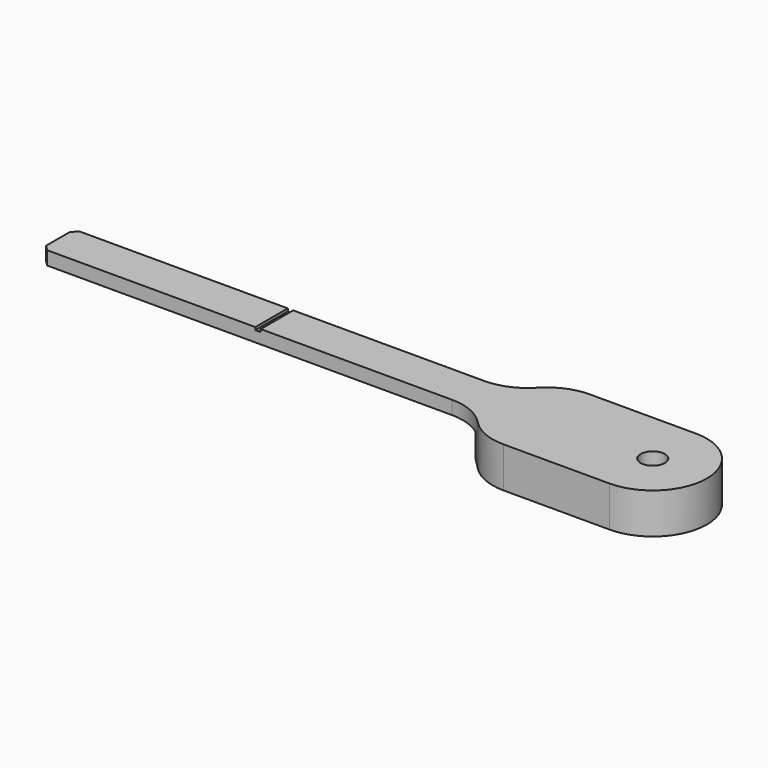
from build123d import *

# Parameters (mm, degrees)
F0_W     = 80
F0_H     = 7.5
F0_R     = 2.25
F1_DEPTH = 2.5
F2_DEPTH = 5
F3_SIZE  = 1
F4_R     = 10
F5_R     = 5
F6_W     = 1
F6_H     = 7.5
F7_DEPTH = 0.5


with BuildPart() as f1:
    # F0 (on Top) → F1 (new body)
    with BuildSketch(Plane.XY):
        Rectangle(F0_W, F0_H)
        with BuildLine():
            Line((46.25, 10), (40, 3.75))
            Line((40, 3.75), (40, -3.75))
            Line((40, -3.75), (46.25, -10))
            Line((46.25, -10), (70, -10))
            ThreePointArc((70, -10), (80, 0), (70, 10))
            Line((70, 10), (46.25, 10))
        make_face()
        with Locations((70, 0)):
            Circle(F0_R, mode=Mode.SUBTRACT)
    extrude(amount=F1_DEPTH)

    # F0 (on Top) → F2 (join)
    with BuildSketch(Plane.XY):
        with BuildLine():
            Line((46.25, 10), (40, 3.75))
            Line((40, 3.75), (40, -3.75))
            Line((40, -3.75), (46.25, -10))
            Line((46.25, -10), (70, -10))
            ThreePointArc((70, -10), (80, 0), (70, 10))
            Line((70, 10), (46.25, 10))
        make_face()
        with Locations((70, 0)):
            Circle(F0_R, mode=Mode.SUBTRACT)
    extrude(amount=-F2_DEPTH)

    # F3
    f3_edges = [f1.edges().sort_by_distance(p)[0] for p in [
        (-40, -3.75, 1.25),
        (-40, 3.75, 1.25),
    ]]
    chamfer(f3_edges, length=F3_SIZE)

    # F4
    f4_edges = [f1.edges().sort_by_distance(p)[0] for p in [
        (40, -3.75, 1.25),
        (46.25, -10, -1.25),
        (46.25, 10, -1.25),
        (40, 3.75, 1.25),
    ]]
    fillet(f4_edges, radius=F4_R)

    # F5
    f5_edges = [f1.edges().sort_by_distance(p)[0] for p in [
        (40, -3.75, -2.5),
        (40, 3.75, -2.5),
    ]]
    fillet(f5_edges, radius=F5_R)

    # F6 (on face) → F7 (cut)
    with BuildSketch(Plane.XY.offset(2.5)):
        Rectangle(F6_W, F6_H)
    extrude(amount=-F7_DEPTH, mode=Mode.SUBTRACT)


solid = f1.part
